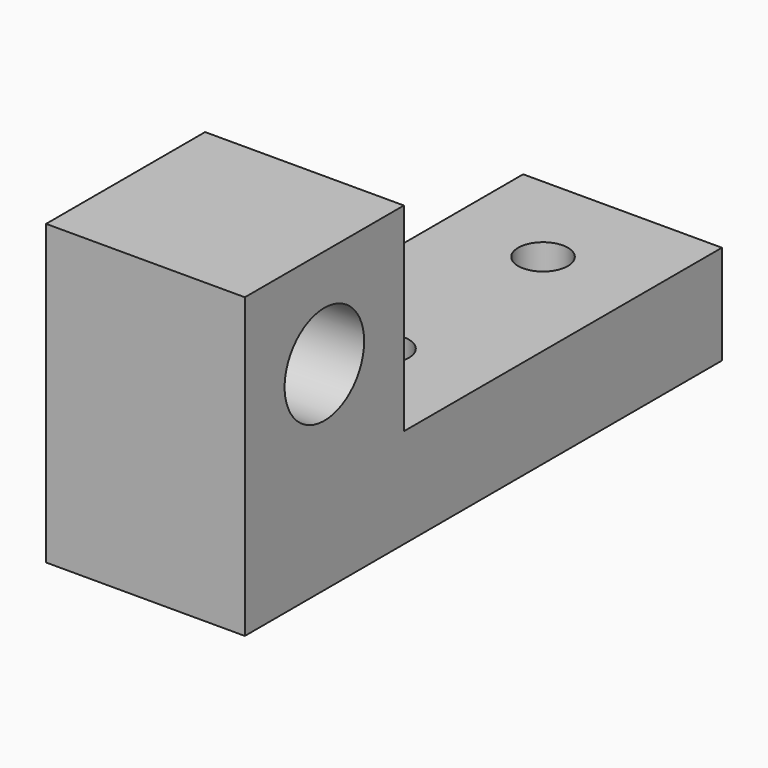
from build123d import *

# Parameters (mm, degrees)
F0_W     = 20
F0_H     = 60
F1_DEPTH = 10
F2_W     = 20
F2_H     = 20
F3_DEPTH = 20
F5_D     = 5
F7_D     = 5
F9_D     = 10


with BuildPart() as f1:
    # F0 (on Top) → F1 (new body)
    with BuildSketch(Plane.XY):
        Rectangle(F0_W, F0_H)
    extrude(amount=F1_DEPTH)

    # F2 (on face) → F3 (join)
    with BuildSketch(Plane.XY.offset(10)):
        with Locations((0, -20)):
            Rectangle(F2_W, F2_H)
    extrude(amount=F3_DEPTH)

    # F5 (through all)
    with Locations(Plane.XY.offset(10)):
        with Locations((0, 20)):
            Hole(F5_D / 2)

    # F7 (through all)
    with Locations(Plane.XY.offset(10)):
        with Locations((0, 0)):
            Hole(F7_D / 2)

    # F9 (through all)
    with Locations(Plane(origin=(-10, 0, 0), x_dir=(0, -1, 0), z_dir=(-1, 0, 0))):
        with Locations((20, 20)):
            Hole(F9_D / 2)


solid = f1.part
